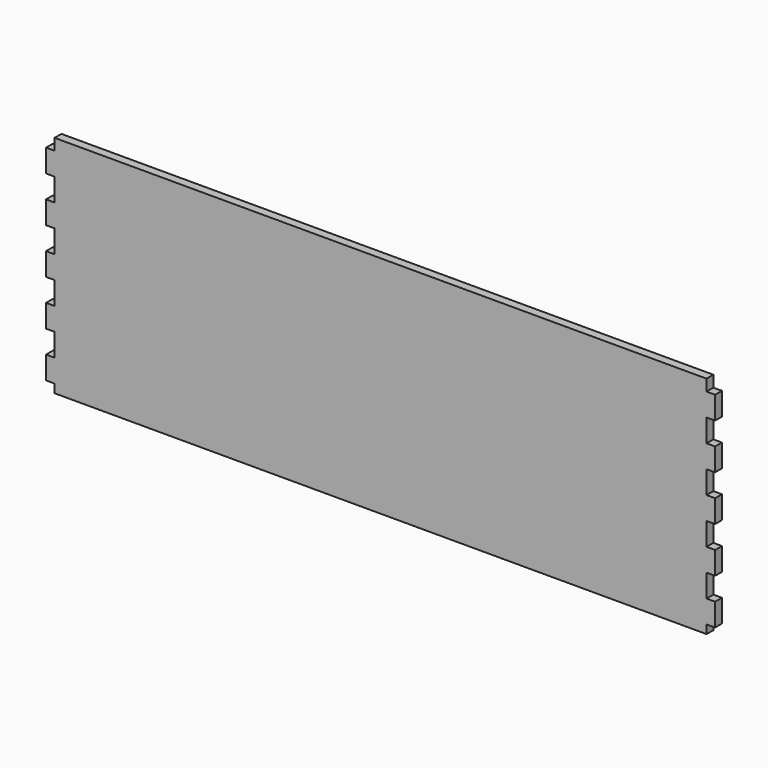
from build123d import *

# Parameters (mm, degrees)
F1_DEPTH = 3


with BuildPart() as f1:
    # F0 (on Front) → F1 (new body)
    with BuildSketch(Plane.XZ):
        Polygon((0, 3), (0, 0), (229, 0), (229, 3), (232, 3), (232, 11), (229, 11), (229, 19), (232, 19), (232, 27), (229, 27), (229, 35), (232, 35), (232, 43), (229, 43), (229, 51), (232, 51), (232, 59), (229, 59), (229, 67), (232, 67), (232, 75), (229, 75), (229, 79), (0, 79), (0, 75), (-3, 75), (-3, 67), (0, 67), (0, 59), (-3, 59), (-3, 51), (0, 51), (0, 43), (-3, 43), (-3, 35), (0, 35), (0, 27), (-3, 27), (-3, 19), (0, 19), (0, 11), (-3, 11), (-3, 3), align=None)
    extrude(amount=F1_DEPTH)


solid = f1.part
